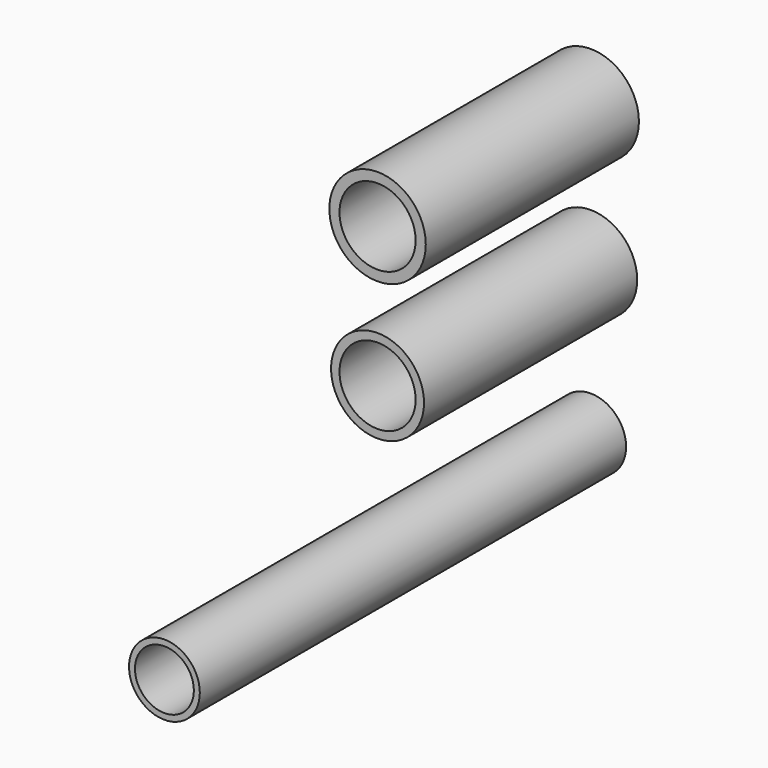
from build123d import *

# Parameters (mm, degrees)
F0_R     = 15.508608
F0_R_2   = 12.7
F1_DEPTH = 88.9
F2_R     = 16.087374
F2_R_2   = 12.7
F3_DEPTH = 88.9
F4_R     = 11.811
F4_R_2   = 9.827442
F5_DEPTH = 177.8


with BuildPart() as f1:
    # F0 (on Front) → F1 (new body)
    with BuildSketch(Plane.XZ):
        Circle(F0_R)
        Circle(F0_R_2, mode=Mode.SUBTRACT)
    extrude(amount=F1_DEPTH)


with BuildPart() as f3:
    # F2 (on Front) → F3 (new body)
    with BuildSketch(Plane.XZ):
        with Locations((-2e-06, 46.728529)):
            Circle(F2_R)
        with Locations((0, 46.789468)):
            Circle(F2_R_2, mode=Mode.SUBTRACT)
    extrude(amount=F3_DEPTH)


with BuildPart() as f5:
    # F4 (on Front) → F5 (new body)
    with BuildSketch(Plane.XZ):
        with Locations((0, -50.196743)):
            Circle(F4_R)
        with Locations((0, -50.196743)):
            Circle(F4_R_2, mode=Mode.SUBTRACT)
    extrude(amount=F5_DEPTH)


solid = Compound([f1.part, f3.part, f5.part])
